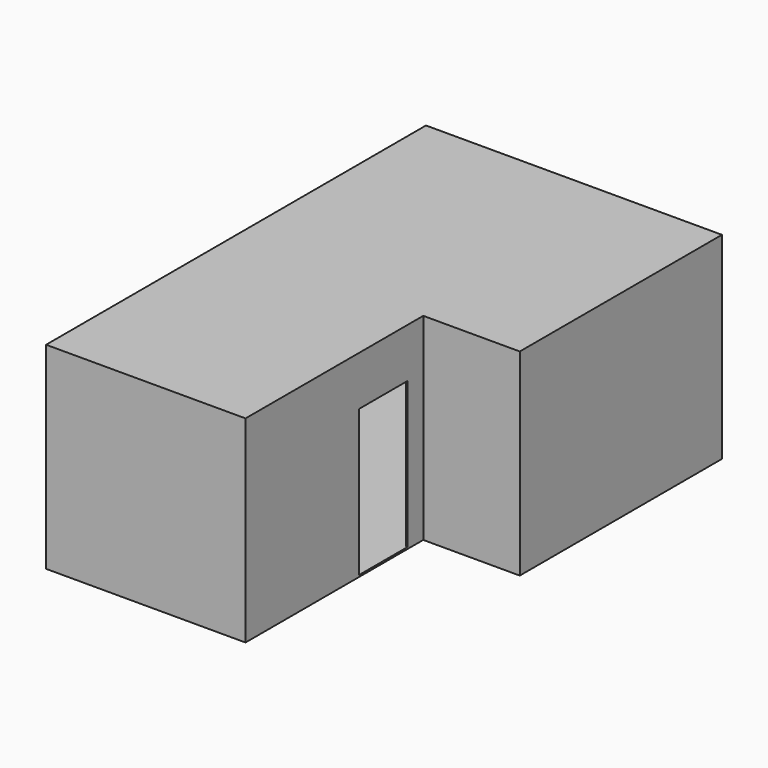
from build123d import *

# Parameters (mm, degrees)
F1_DEPTH  = 2730
F3_DEPTH  = 790
F5_DEPTH  = 790
F8_DEPTH  = 330
F10_DEPTH = 330
F11_T     = 25
F12_W     = 900
F12_H     = 1610
F13_DEPTH = 25
F14_W     = 860
F14_H     = 2060
F15_DEPTH = 25


with BuildPart() as f1:
    # F0 (on Top) → F1 (new body)
    with BuildSketch(Plane.XY):
        Polygon((-2760, 0), (0, 0), (0, 3130), (1360, 3130), (1360, 6640), (-2760, 6640), (-2760, 5520), (-3100, 5385), (-3100, 4485), (-2760, 4350), (-2760, 1930), (-3100, 1790), (-3100, 900), (-2760, 760), align=None)
    extrude(amount=F1_DEPTH)

    # F2 (on face) → F3 (cut)
    with BuildSketch(Plane(origin=(0, 0, 0), x_dir=(1, 0, 0), z_dir=(0, 0, -1))):
        Polygon((-3100, -5385), (-2760, -5520), (-2760, -4350), (-3100, -4485), align=None)
    extrude(amount=-F3_DEPTH, mode=Mode.SUBTRACT)

    # F4 (on face) → F5 (cut)
    with BuildSketch(Plane(origin=(0, 0, 0), x_dir=(1, 0, 0), z_dir=(0, 0, -1))):
        Polygon((-3100, -1790), (-2760, -1930), (-2760, -760), (-3100, -900), align=None)
    extrude(amount=-F5_DEPTH, mode=Mode.SUBTRACT)

    # F7 (on offset) → F8 (cut, through all)
    with BuildSketch(Plane(origin=(0, 0, 2400), x_dir=(1, 0, 0), z_dir=(0, 0, -1))):
        Polygon((-3100, -1790), (-2760, -1930), (-2760, -760), (-3100, -900), align=None)
    extrude(amount=-F8_DEPTH, mode=Mode.SUBTRACT)

    # F9 (on offset) → F10 (cut, through all)
    with BuildSketch(Plane(origin=(0, 0, 2400), x_dir=(1, 0, 0), z_dir=(0, 0, -1))):
        Polygon((-3100, -5385), (-2760, -5520), (-2760, -4350), (-3100, -4485), align=None)
    extrude(amount=-F10_DEPTH, mode=Mode.SUBTRACT)

    # F11
    f11_openings = [f1.faces().sort_by_distance(p)[0] for p in [
        (-3100, 1345, 1595),
    ]]
    offset(amount=F11_T, openings=f11_openings, kind=Kind.INTERSECTION)

    # F12 (on face) → F13 (cut, through all)
    with BuildSketch(Plane.YZ.offset(-3100)):
        with Locations((4935, 1595)):
            Rectangle(F12_W, F12_H)
    extrude(amount=-F13_DEPTH, mode=Mode.SUBTRACT)

    # F14 (on face) → F15 (cut, through all)
    with BuildSketch(Plane.YZ.offset(25)):
        with Locations((2400, 1030)):
            Rectangle(F14_W, F14_H)
    extrude(amount=-F15_DEPTH, mode=Mode.SUBTRACT)


solid = f1.part
